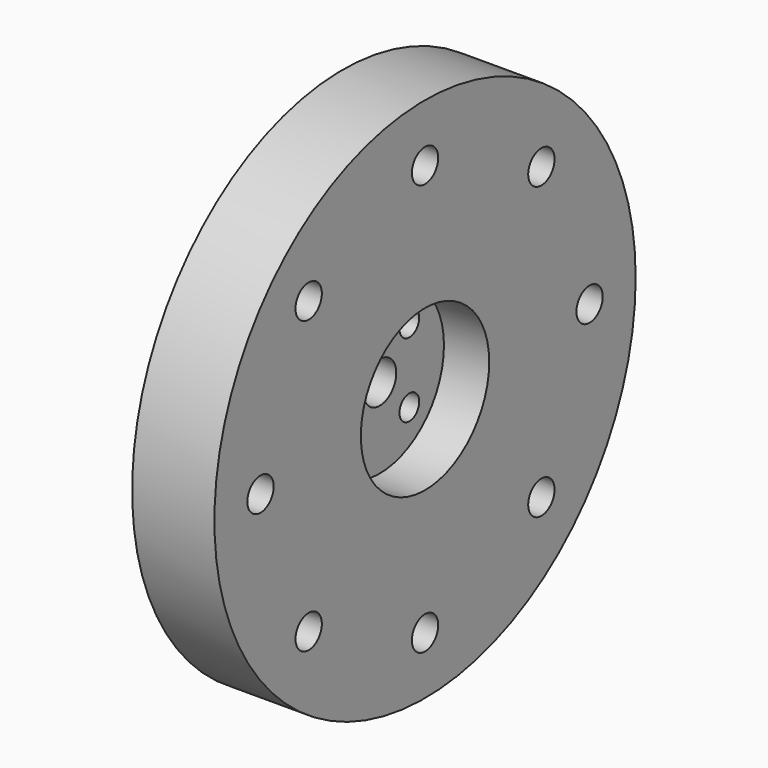
from build123d import *

# Parameters (mm, degrees)
F0_R     = 32
F0_R_2   = 2.5
F1_DEPTH = 5
F2_R     = 9.75
F3_DEPTH = 5.5
F4_R     = 1.5
F5_DEPTH = 4.501
F6_R     = 2
F7_DEPTH = 10.001


with BuildPart() as f1:
    # F0 (on Right) → F1 (new body, symmetric)
    with BuildSketch(Plane.YZ):
        Circle(F0_R)
        Circle(F0_R_2, mode=Mode.SUBTRACT)
    extrude(amount=F1_DEPTH, both=True)

    # F2 (on face) → F3 (cut)
    with BuildSketch(Plane.YZ.offset(5)):
        Circle(F2_R)
    extrude(amount=-F3_DEPTH, mode=Mode.SUBTRACT)

    # F4 (on face) → F5 (cut, through all)
    with BuildSketch(Plane.YZ.offset(-0.5)):
        with Locations((-4.490128, 4.490128)):
            Circle(F4_R)
        with Locations((-4.490128, -4.490128)):
            Circle(F4_R)
        with Locations((4.490128, -4.490128)):
            Circle(F4_R)
        with Locations((4.490128, 4.490128)):
            Circle(F4_R)
    extrude(amount=-F5_DEPTH, mode=Mode.SUBTRACT)

    # F6 (on face) → F7 (cut, through all)
    with BuildSketch(Plane.YZ.offset(5)):
        with Locations((0, 25)):
            Circle(F6_R)
        with Locations((-17.67767, 17.67767)):
            Circle(F6_R)
        with Locations((-25, 0)):
            Circle(F6_R)
        with Locations((-17.67767, -17.67767)):
            Circle(F6_R)
        with Locations((0, -25)):
            Circle(F6_R)
        with Locations((17.67767, -17.67767)):
            Circle(F6_R)
        with Locations((25, 0)):
            Circle(F6_R)
        with Locations((17.67767, 17.67767)):
            Circle(F6_R)
    extrude(amount=-F7_DEPTH, mode=Mode.SUBTRACT)


solid = f1.part
